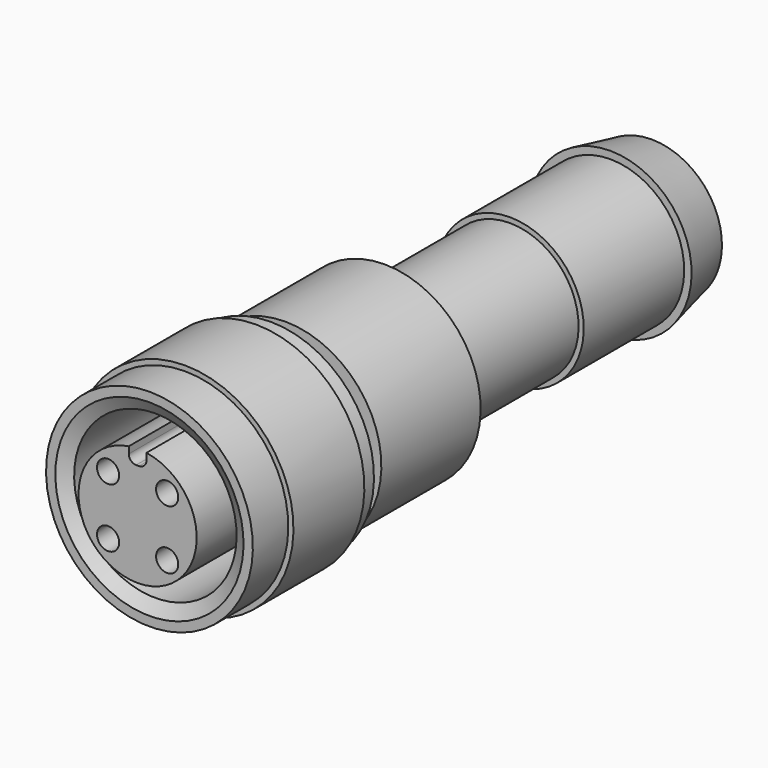
from build123d import *

# Parameters (mm, degrees)
F6_R     = 0.75
F7_DEPTH = 9


with BuildPart() as f1:
    # F0 (on Right) → F1 (revolve)
    with BuildSketch(Plane.YZ):
        Polygon((1.25, 7), (0, 7), (0, 0), (33.25, 0), (33.25, 2.7), (33.5, 3.133013), (33.5, 4.756052), (30, 5.5), (30, 5), (21.5, 5), (21.5, 4.65), (10.9, 4.65), (10.9, 6.5), (2.5, 6.5), (2.5, 4.65), (1.5, 4.65), align=None)
    revolve(axis=Axis((0, -17.104737, 0), (0, -1, 0)))

    # F2 (on Right) → F3 (revolve)
    with BuildSketch(Plane.YZ):
        Polygon((-8.497705, 5.5), (0, 5.5), (0, 7.35), (-6, 7.35), (-6, 7), (-9, 7), (-9, 6.37), align=None)
    revolve(axis=Axis((0, -12.747619, 0), (0, -1, 0)))

    # F4 (on Right) → F5 (revolve)
    with BuildSketch(Plane.YZ):
        Polygon((-10, 0), (0, 0), (0, 5.25), (-1, 5.25), (-1, 4), (-10, 4), align=None)
    revolve(axis=Axis((0, -5, 0), (0, 1, 0)))

    # F6 (on face) → F7 (cut, through all)
    with BuildSketch(Plane.XZ.offset(10)):
        with Locations((-2, 2)):
            Circle(F6_R)
        with Locations((2, 2)):
            Circle(F6_R)
        with Locations((2, -2)):
            Circle(F6_R)
        with Locations((-2, -2)):
            Circle(F6_R)
        with BuildLine():
            ThreePointArc((-0.6, 3.5), (-0.453553, 3.146447), (-0.1, 3))
            Line((-0.1, 3), (0.1, 3))
            ThreePointArc((0.1, 3), (0.453553, 3.146447), (0.6, 3.5))
            Line((0.6, 3.5), (0.6, 4.5))
            Line((0.6, 4.5), (-0.6, 4.5))
            Line((-0.6, 4.5), (-0.6, 3.5))
        make_face()
    extrude(amount=-F7_DEPTH, mode=Mode.SUBTRACT)


solid = f1.part
